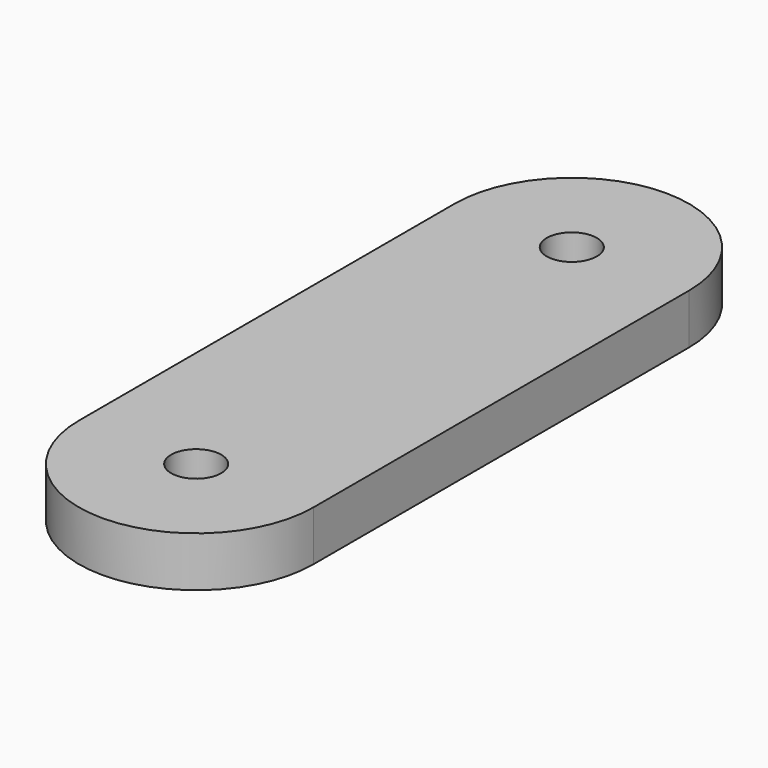
from build123d import *

# Parameters (mm, degrees)
F0_R     = 1.6
F1_DEPTH = 3.2


with BuildPart() as f1:
    # F0 (on Top) → F1 (new body)
    with BuildSketch(Plane.XY):
        with BuildLine():
            ThreePointArc((-7.5, 0), (0, -7.5), (7.5, 0))
            ThreePointArc((7.5, 0), (0, 7.5), (-7.5, 0))
        make_face()
        Circle(F0_R, mode=Mode.SUBTRACT)
        with BuildLine():
            ThreePointArc((-7.5, 0), (0, 7.5), (7.5, 0))
            Line((7.5, 0), (7.5, 30))
            ThreePointArc((7.5, 30), (0, 22.5), (-7.5, 30))
            Line((-7.5, 30), (-7.5, 0))
        make_face()
        with BuildLine():
            ThreePointArc((-7.5, 30), (0, 22.5), (7.5, 30))
            ThreePointArc((7.5, 30), (0, 37.5), (-7.5, 30))
        make_face()
        with Locations((0, 30)):
            Circle(F0_R, mode=Mode.SUBTRACT)
    extrude(amount=F1_DEPTH)


solid = f1.part
